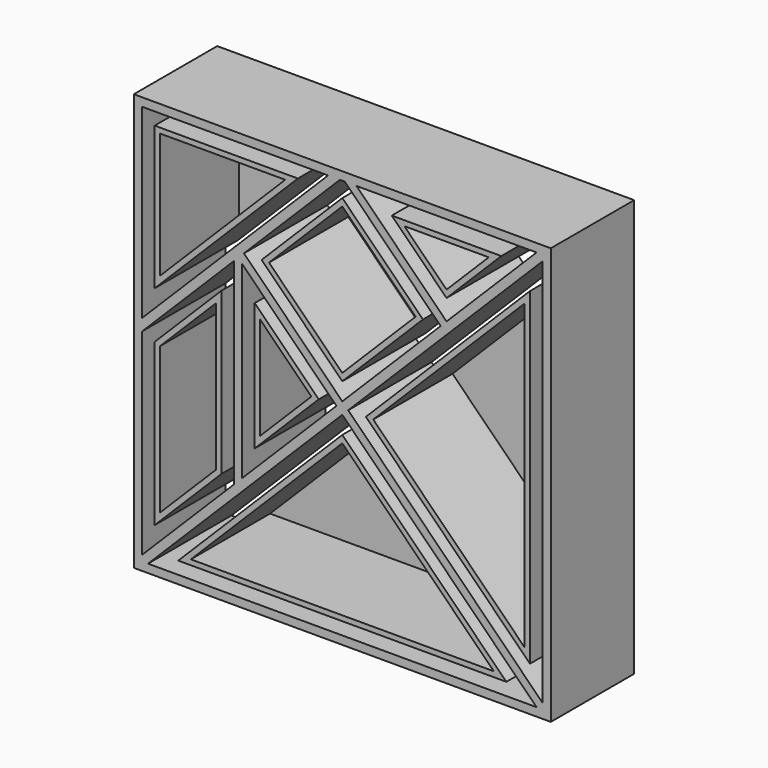
from build123d import *

# Parameters (mm, degrees)
F0_W     = 200
F0_H     = 200
F1_DEPTH = 50
F3_DEPTH = 50
F4_T     = -2.5
F4_2_T   = -2.5
F4_3_T   = -2.5
F4_4_T   = -2.5
F4_5_T   = -2.5
F4_6_T   = -2.5
F4_7_T   = -2.5


with BuildPart() as f1:
    # F0 (on Front) → F1 (new body)
    with BuildSketch(Plane.XZ):
        with Locations((-12.2728385031, 0)):
            Rectangle(F0_W, F0_H)
        Polygon((-64.2728385031, -49.1715728753), (-108.2728385031, -93.1715728753), (-108.2728385031, 1.1715728753), (-64.2728385031, 45.1715728753), align=None, mode=Mode.SUBTRACT)
        Polygon((-60.2728385031, -45.1715728753), (-60.2728385031, 45.1715728753), (-15.1012656279, 0), align=None, mode=Mode.SUBTRACT)
        Polygon((-12.2728385031, -2.8284271247), (80.8987343721, -96), (-105.4444113784, -96), align=None, mode=Mode.SUBTRACT)
        Polygon((-108.2728385031, 96), (-19.1012656279, 96), (-108.2728385031, 6.8284271247), align=None, mode=Mode.SUBTRACT)
        Polygon((83.7271614969, 93.1715728753), (83.7271614969, -93.1715728753), (-9.4444113784, 0), align=None, mode=Mode.SUBTRACT)
        Polygon((-59.4444113784, 50), (-13.4444113784, 96), (-11.1012656279, 96), (34.8987343721, 50), (-12.2728385031, 2.8284271247), align=None, mode=Mode.SUBTRACT)
        Polygon((-5.4444113784, 96), (80.8987343721, 96), (37.7271614969, 52.8284271247), align=None, mode=Mode.SUBTRACT)
    extrude(amount=F1_DEPTH)


with BuildPart() as f3:
    # F2 (on Front) → F3 (new body)
    with BuildSketch(Plane.XZ):
        Polygon((77.7271614969, -78.686291501), (77.7271614969, 78.686291501), (-0.9591300041, 0), align=None)
    extrude(amount=F3_DEPTH)

    # F4#7
    f4_7_openings = [f3.faces().sort_by_distance(p)[0] for p in [
        (51.498398, -50, 0),
    ]]
    offset(amount=F4_7_T, openings=f4_7_openings)


with BuildPart() as f3b:
    # F2 (on Front) → F3, piece 2 (new body)
    with BuildSketch(Plane.XZ):
        Polygon((-12.2728385031, -11.313708499), (-90.9591300041, -90), (66.4134529979, -90), align=None)
    extrude(amount=F3_DEPTH)

    # F4#3
    f4_3_openings = [f3b.faces().sort_by_distance(p)[0] for p in [
        (-12.272839, -50, -63.771236),
    ]]
    offset(amount=F4_3_T, openings=f4_3_openings)


with BuildPart() as f3c:
    # F2 (on Front) → F3, piece 3 (new body)
    with BuildSketch(Plane.XZ):
        Polygon((26.4134529979, 50), (-12.2728385031, 88.686291501), (-50.9591300041, 50), (-12.2728385031, 11.313708499), align=None)
    extrude(amount=F3_DEPTH)

    # F4#5
    f4_5_openings = [f3c.faces().sort_by_distance(p)[0] for p in [
        (-12.272839, -50, 50),
    ]]
    offset(amount=F4_5_T, openings=f4_5_openings)


with BuildPart() as f3d:
    # F2 (on Front) → F3, piece 4 (new body)
    with BuildSketch(Plane.XZ):
        Polygon((-23.5865470021, 0), (-54.2728385031, 30.686291501), (-54.2728385031, -30.686291501), align=None)
    extrude(amount=F3_DEPTH)

    # F4#4
    f4_4_openings = [f3d.faces().sort_by_distance(p)[0] for p in [
        (-44.044075, -50, 0),
    ]]
    offset(amount=F4_4_T, openings=f4_4_openings)


with BuildPart() as f3e:
    # F2 (on Front) → F3, piece 5 (new body)
    with BuildSketch(Plane.XZ):
        Polygon((-102.2728385031, -1.313708499), (-102.2728385031, -78.686291501), (-70.2728385031, -46.686291501), (-70.2728385031, 30.686291501), align=None)
    extrude(amount=F3_DEPTH)

    # F4
    f4_openings = [f3e.faces().sort_by_distance(p)[0] for p in [
        (-86.272839, -50, -24),
    ]]
    offset(amount=F4_T, openings=f4_openings)


with BuildPart() as f3f:
    # F2 (on Front) → F3, piece 6 (new body)
    with BuildSketch(Plane.XZ):
        Polygon((-102.2728385031, 90), (-102.2728385031, 21.313708499), (-33.5865470021, 90), align=None)
    extrude(amount=F3_DEPTH)

    # F4#2
    f4_2_openings = [f3f.faces().sort_by_distance(p)[0] for p in [
        (-79.377408, -50, 67.104569),
    ]]
    offset(amount=F4_2_T, openings=f4_2_openings)


with BuildPart() as f3g:
    # F2 (on Front) → F3, piece 7 (new body)
    with BuildSketch(Plane.XZ):
        Polygon((63.999237289, 88.9999991109), (11.4550857047, 88.9999991109), (37.7271614969, 62.7279233187), align=None)
    extrude(amount=F3_DEPTH)

    # F4#6
    f4_6_openings = [f3g.faces().sort_by_distance(p)[0] for p in [
        (37.727161, -50, 80.242641),
    ]]
    offset(amount=F4_6_T, openings=f4_6_openings)


solid = Compound([f1.part, f3.part, f3b.part, f3c.part, f3d.part, f3e.part, f3f.part, f3g.part])
